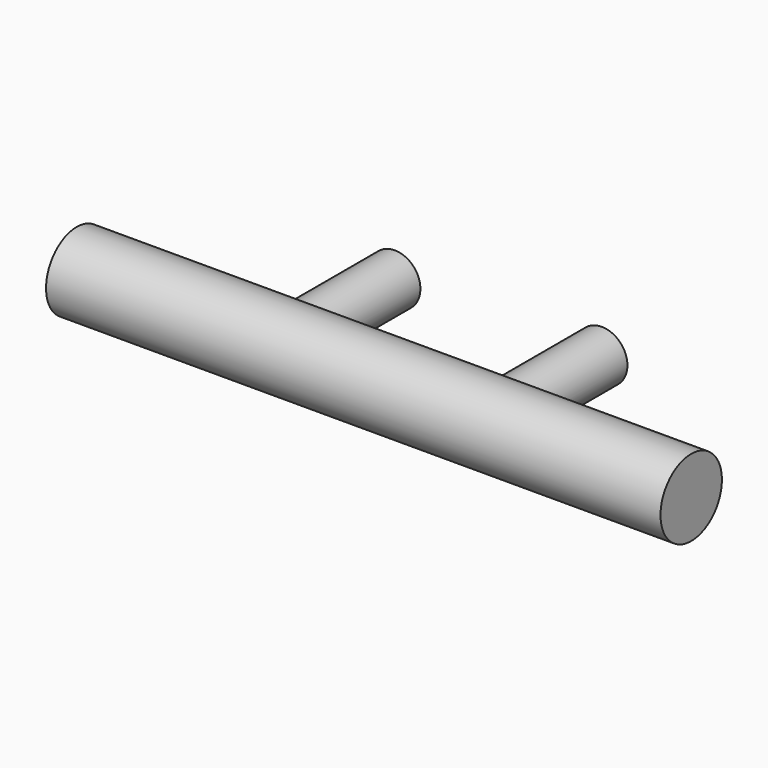
from build123d import *

# Parameters (mm, degrees)
F1_R     = 9.525
F2_DEPTH = 76.2
F0_R     = 6.35
F3_DEPTH = 32.38043


with BuildPart() as f2:
    # F1 (on Right) → F2 (new body, symmetric)
    with BuildSketch(Plane.YZ):
        with Locations((-35.451001, 0)):
            Circle(F1_R)
    extrude(amount=F2_DEPTH, both=True)

    # F0 (on Front) → F3 (join)
    with BuildSketch(Plane.XZ):
        with Locations((-25.673024, 0.078379)):
            Circle(F0_R)
        with Locations((25.673024, 0.078379)):
            Circle(F0_R)
    extrude(amount=F3_DEPTH)


solid = f2.part
